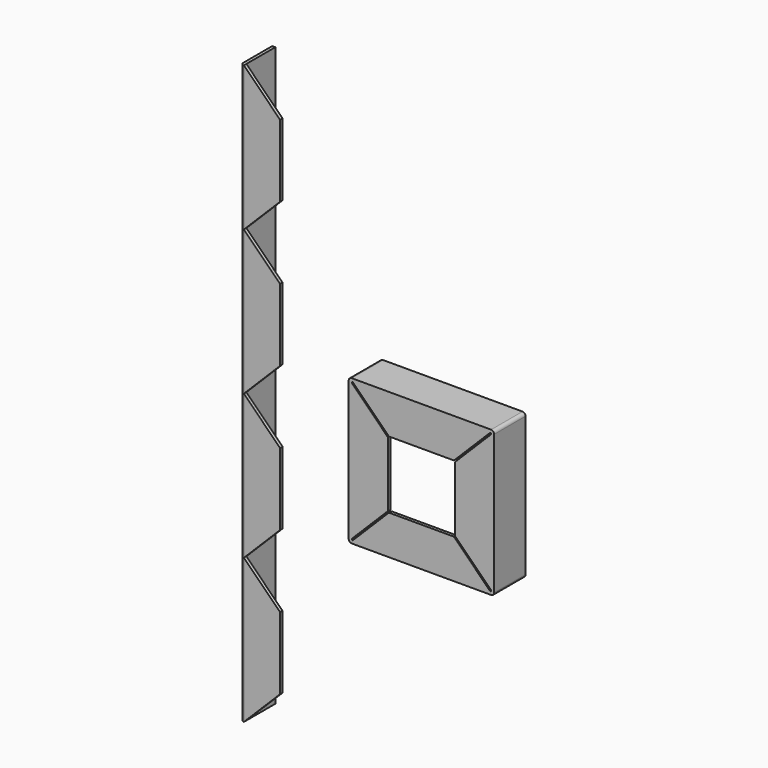
from build123d import *

# Parameters (mm, degrees)
PAD_DEPTH          = 280
POCKET_DEPTH       = 5
PAD001_DEPTH       = 38
SKETCH003_W        = 135
SKETCH003_H        = 135
POCKET001_DEPTH    = 35
POCKET002_DEPTH    = 5
POLARPATTERN_COUNT = 4


with BuildPart() as body:
    # Sketch → Pad (new body, symmetric)
    with BuildSketch(Plane.XY):
        with BuildLine():
            Line((0, 0), (0, 35))
            Line((0, 35), (-3, 35))
            Line((-3, 35), (-3, 0))
            ThreePointArc((-3, 0), (-2.12132, -2.12132), (0, -3))
            Line((0, -3), (35, -3))
            Line((35, 0), (35, -3))
            Line((0, 0), (35, 0))
        make_face()
    extrude(amount=PAD_DEPTH, both=True)

    # Sketch001 (on Face7 of Pad) → Pocket (cut)
    with BuildSketch(Plane(origin=(0, 0, 0), x_dir=(-1, 0, 0), z_dir=(0, 1, 0))):
        Polygon((-35, 280), (0, 280), (-35, 245), align=None)
        Polygon((0, 0), (-35, 35), (-35, -35), align=None)
        Polygon((-35, 105), (0, 140), (-35, 175), align=None)
        Polygon((-35, -105), (0, -140), (-35, -175), align=None)
        Polygon((-35, -280), (-35, -245), (0, -280), align=None)
    extrude(amount=-POCKET_DEPTH, mode=Mode.SUBTRACT)


with BuildPart() as body_1:
    # Body placement: moved
    add(body.part.moved(Location((-200, 0, 0))))


with BuildPart() as body001:
    # Sketch002 → Pad001 (new body)
    with BuildSketch(Plane.XZ):
        with BuildLine():
            Line((-67.5, 70.5), (67.5, 70.5))
            ThreePointArc((70.5, 67.5), (69.62132, 69.62132), (67.5, 70.5))
            Line((70.5, 67.5), (70.5, -67.5))
            ThreePointArc((67.5, -70.5), (69.62132, -69.62132), (70.5, -67.5))
            Line((67.5, -70.5), (-67.5, -70.5))
            ThreePointArc((-70.5, -67.5), (-69.62132, -69.62132), (-67.5, -70.5))
            Line((-70.5, -67.5), (-70.5, 67.5))
            ThreePointArc((-67.5, 70.5), (-69.62132, 69.62132), (-70.5, 67.5))
        make_face()
    extrude(amount=PAD001_DEPTH)

    # Sketch003 (on Face9 of Pad001) → Pocket001 (cut)
    with BuildSketch(Plane(origin=(0, 0, 0), x_dir=(1, 0, 0), z_dir=(0, 1, 0))):
        Rectangle(SKETCH003_W, SKETCH003_H)
    extrude(amount=-POCKET001_DEPTH, mode=Mode.SUBTRACT)

    # Sketch004 (on Face15 of Pocket001) → Pocket002 (cut)
    with BuildSketch(Plane(origin=(0, -35, 0), x_dir=(1, 0, 0), z_dir=(0, 1, 0))):
        Polygon((0, 0), (0, 32.5), (-31.5, 32.5), (-66.5, 67.5), (-67.5, 67.5), (-67.5, 66.5), (-32.5, 31.5), (-32.5, 0), align=None)
    pocket002 = extrude(amount=-POCKET002_DEPTH, mode=Mode.SUBTRACT)

    # PolarPattern: Pocket002 ×4 about axis
    polarpattern_axis = Axis((0, -35, 0), (0, 1, 0))
    for i in range(1, POLARPATTERN_COUNT):
        add(pocket002.rotate(polarpattern_axis, i * 360 / POLARPATTERN_COUNT), mode=Mode.SUBTRACT)


solid = Compound([body_1.part, body001.part])
